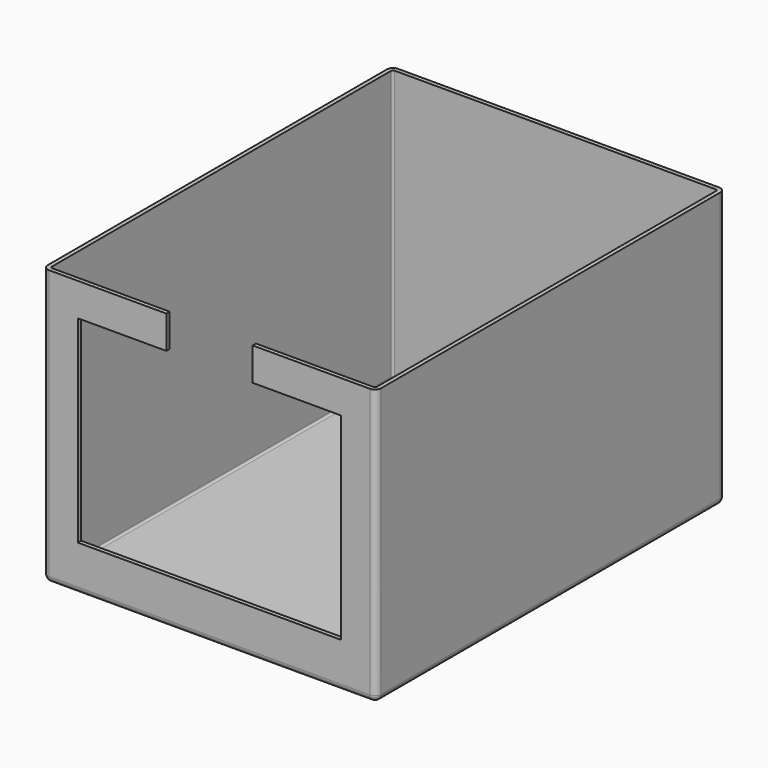
from build123d import *

# Parameters (mm, degrees)
BOX040_W     = 12.8
BOX040_H     = 0.2
BOX040_DEPTH = 9.6
BOX041_W     = 4.2
BOX041_H     = 0.2
BOX041_DEPTH = 1.6
BOX007_W     = 15.8
BOX007_H     = 20.8
BOX007_DEPTH = 13.2
FILLET015_R  = 0.1
BOX039_W     = 16.2
BOX039_H     = 21.2
BOX039_DEPTH = 13.4
FILLET016_R  = 0.3


with BuildPart() as cube017:
    # Box040 → Box040 (new body)
    with BuildSketch(Plane(origin=(-6.4, 0, 2.2), x_dir=(1, 0, 0), z_dir=(0, 0, 1))):
        with Locations((6.4, 0.1)):
            Rectangle(BOX040_W, BOX040_H)
    extrude(amount=BOX040_DEPTH)


with BuildPart() as cube018:
    # Box041 → Box041 (new body)
    with BuildSketch(Plane(origin=(-2.1, 0, 11.8), x_dir=(1, 0, 0), z_dir=(0, 0, 1))):
        with Locations((2.1, 0.1)):
            Rectangle(BOX041_W, BOX041_H)
    extrude(amount=BOX041_DEPTH)


with BuildPart() as fusion042:
    # Box007 → Box007 (new body)
    with BuildSketch(Plane(origin=(-7.9, 0.2, 0.2), x_dir=(1, 0, 0), z_dir=(0, 0, 1))):
        with Locations((7.9, 10.4)):
            Rectangle(BOX007_W, BOX007_H)
    extrude(amount=BOX007_DEPTH)

    # Fillet015
    fillet015_edges = [fusion042.edges().sort_by_distance(p)[0] for p in [
        (-7.9, 0.2, 6.8),
        (-7.9, 21, 6.8),
        (-7.9, 10.6, 0.2),
        (7.9, 0.2, 6.8),
        (7.9, 21, 6.8),
        (7.9, 10.6, 0.2),
        (0, 0.2, 0.2),
        (0, 21, 0.2),
    ]]
    fillet(fillet015_edges, radius=FILLET015_R)

    # Fusion042: union Cube017, Cube018
    add(cube017.part)
    add(cube018.part)


with BuildPart() as shield:
    # Box039 → Box039 (new body)
    with BuildSketch(Plane(origin=(-8.1, 0, 0), x_dir=(1, 0, 0), z_dir=(0, 0, 1))):
        with Locations((8.1, 10.6)):
            Rectangle(BOX039_W, BOX039_H)
    extrude(amount=BOX039_DEPTH)

    # Fillet016
    fillet016_edges = [shield.edges().sort_by_distance(p)[0] for p in [
        (-8.1, 0, 6.7),
        (-8.1, 21.2, 6.7),
        (-8.1, 10.6, 0),
        (8.1, 0, 6.7),
        (8.1, 21.2, 6.7),
        (8.1, 10.6, 0),
        (0, 0, 0),
        (0, 21.2, 0),
    ]]
    fillet(fillet016_edges, radius=FILLET016_R)

    # Cut009: cut Fusion042
    add(fusion042.part, mode=Mode.SUBTRACT)


solid = shield.part
